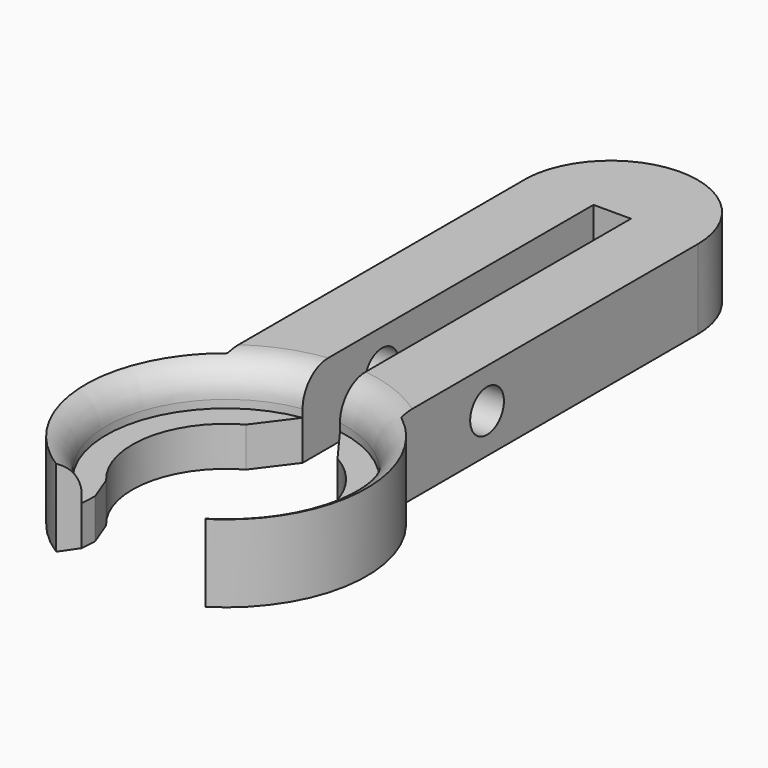
from build123d import *

# Parameters (mm, degrees)
F1_DEPTH = 12.7
F2_DEPTH = 6.35
F4_D     = 6.7564
F5_R     = 5.08


with BuildPart() as f1:
    # F0 (on Top) → F1 (new body)
    with BuildSketch(Plane.XY):
        with BuildLine():
            Line((-13.9034517987, 76.1113017797), (-13.9034517987, 17.6902240822))
            ThreePointArc((-13.9034517987, 17.6902240822), (-22.46786683, -1.2020649347), (-11.9365793678, -19.0727049208))
            Line((-11.9365793678, -19.0727049208), (-10.045198296, -16.337374341))
            ThreePointArc((-10.045198296, -16.337374341), (-18.7984085357, 3.7994270212), (-2.9118661168, 18.9561822338))
            Line((-2.9118661168, 18.9561822338), (-2.9118661168, 77.1448761225))
            Line((-2.9118661168, 77.1448761225), (3.0881338832, 77.1448761225))
            Line((3.0881338832, 77.1448761225), (3.0881338832, 18.928265591))
            ThreePointArc((3.0881338832, 18.928265591), (18.8158827453, 3.7119221002), (10.045198296, -16.337374341))
            Line((10.045198296, -16.337374341), (11.9365793678, -19.0727049208))
            ThreePointArc((11.9365793678, -19.0727049208), (22.46786683, -1.2020649347), (13.9034517987, 17.6902240822))
            Line((13.9034517987, 17.6902240822), (13.9034517987, 76.9488066435))
            Line((13.9034517987, 76.9488066435), (13.9034517987, 77.005261239))
            ThreePointArc((13.9034517987, 77.005261239), (0.4055063748, 90.8876688225), (-13.9034517987, 77.8427661028))
            Line((-13.9034517987, 77.8427661028), (-13.9034517987, 76.1113017797))
        make_face()
    extrude(amount=F1_DEPTH)

    # F0 (on Top) → F2 (join)
    with BuildSketch(Plane.XY):
        with BuildLine():
            Line((-13.9034517987, 76.1113017797), (-13.9034517987, 17.6902240822))
            ThreePointArc((-13.9034517987, 17.6902240822), (-22.46786683, -1.2020649347), (-11.9365793678, -19.0727049208))
            Line((-11.9365793678, -19.0727049208), (-10.045198296, -16.337374341))
            ThreePointArc((-10.045198296, -16.337374341), (-18.7984085357, 3.7994270212), (-2.9118661168, 18.9561822338))
            Line((-2.9118661168, 18.9561822338), (-2.9118661168, 77.1448761225))
            Line((-2.9118661168, 77.1448761225), (3.0881338832, 77.1448761225))
            Line((3.0881338832, 77.1448761225), (3.0881338832, 18.928265591))
            ThreePointArc((3.0881338832, 18.928265591), (18.8158827453, 3.7119221002), (10.045198296, -16.337374341))
            Line((10.045198296, -16.337374341), (11.9365793678, -19.0727049208))
            ThreePointArc((11.9365793678, -19.0727049208), (22.46786683, -1.2020649347), (13.9034517987, 17.6902240822))
            Line((13.9034517987, 17.6902240822), (13.9034517987, 76.9488066435))
            Line((13.9034517987, 76.9488066435), (13.9034517987, 77.005261239))
            ThreePointArc((13.9034517987, 77.005261239), (0.4055063748, 90.8876688225), (-13.9034517987, 77.8427661028))
            Line((-13.9034517987, 77.8427661028), (-13.9034517987, 76.1113017797))
        make_face()
        with BuildLine():
            ThreePointArc((-13.9034517987, 77.8427661028), (-13.9304052278, 76.9770339413), (-13.9034517987, 76.1113017797))
            Line((-13.9034517987, 76.1113017797), (-13.9034517987, 77.8427661028))
        make_face()
        with BuildLine():
            ThreePointArc((-2.9118661168, 18.9561822338), (-18.7984085357, 3.7994270212), (-10.045198296, -16.337374341))
            Line((-10.045198296, -16.337374341), (-9.8947915389, -13.8333481617))
            Line((-9.8947915389, -13.8333481617), (-11.5102852396, -9.6183851921))
            ThreePointArc((-11.5102852396, -9.6183851921), (-14.7467682956, 2.7445992121), (-7.2791813889, 13.1153924191))
            Line((-7.2791813889, 13.1153924191), (-2.9118661168, 18.9561822338))
        make_face()
        with BuildLine():
            ThreePointArc((10.045198296, -16.337374341), (18.8158827453, 3.7119221002), (3.0881338832, 18.928265591))
            Line((3.0881338832, 18.928265591), (7.3907075504, 13.0528710215))
            ThreePointArc((7.3907075504, 13.0528710215), (14.758331433, 2.6817258086), (11.5102852396, -9.6183851921))
            Line((11.5102852396, -9.6183851921), (9.8947915389, -13.8333481617))
            Line((9.8947915389, -13.8333481617), (9.9547252954, -16.3926585232))
            ThreePointArc((9.9547252954, -16.3926585232), (10, -16.3650789538), (10.045198296, -16.337374341))
        make_face()
    extrude(amount=F2_DEPTH)

    # F4 (through all)
    with Locations(Plane(origin=(-13.9034517987, 0, 0), x_dir=(0, -1, 0), z_dir=(-1, 0, 0))):
        with Locations((-34.83145684, 6.35)):
            Hole(F4_D / 2)

    # F5
    f5_edges = [f1.edges().sort_by_distance(p)[0] for p in [
        (-18.798409, 3.799427, 12.7),
        (18.815883, 3.711922, 12.7),
    ]]
    fillet(f5_edges, radius=F5_R)


solid = f1.part
